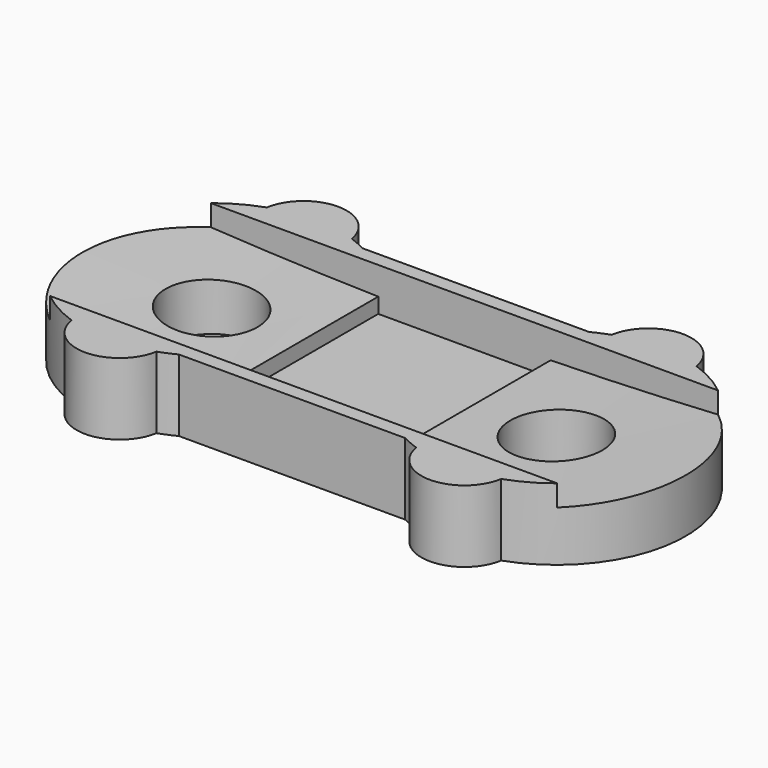
from build123d import *

# Parameters (mm, degrees)
BOX016_W               = 8
BOX016_H               = 8
BOX016_DEPTH           = 1
BOX015_W               = 26
BOX015_H               = 13
BOX015_DEPTH           = 1.5
BOX457_W               = 6
BOX457_H               = 7
BOX457_DEPTH           = 3
CYLINDER008_R          = 150
CYLINDER008_DEPTH      = 7
CYLINDER008_ROLL_ANGLE = 90
CYLINDER006_R          = 1.6
CYLINDER006_DEPTH      = 10
CYLINDER007_R          = 1.6
CYLINDER007_DEPTH      = 10
BOX008_W               = 10
BOX008_H               = 10
BOX008_DEPTH           = 10
CYLINDER005_R          = 1.5
CYLINDER005_DEPTH      = 4
CUT003_PLACEMENT_ANGLE = 180
BOX007_W               = 10
BOX007_H               = 10
BOX007_DEPTH           = 10
CYLINDER682_R          = 1.5
CYLINDER682_DEPTH      = 4
CUT002_PLACEMENT_ANGLE = 180
BOX006_W               = 10
BOX006_H               = 10
BOX006_DEPTH           = 10
CYLINDER003_R          = 1.5
CYLINDER003_DEPTH      = 4
BOX005_W               = 10
BOX005_H               = 10
BOX005_DEPTH           = 10
CYLINDER002_R          = 1.5
CYLINDER002_DEPTH      = 4
BOX456_W               = 12
BOX456_H               = 0.5
BOX456_DEPTH           = 1
BOX004_W               = 12
BOX004_H               = 0.5
BOX004_DEPTH           = 1
BOX455_W               = 12
BOX455_H               = 1
BOX455_DEPTH           = 4
BOX454_W               = 12
BOX454_H               = 1
BOX454_DEPTH           = 4
CYLINDER001_R          = 4.5
CYLINDER001_DEPTH      = 4
CYLINDER681_R          = 4.5
CYLINDER681_DEPTH      = 4
BOX453_W               = 12
BOX453_H               = 8
BOX453_DEPTH           = 1


with BuildPart() as box016:
    # Box016 → Box016 (new body)
    with BuildSketch(Plane(origin=(2, -4, 0), x_dir=(1, 0, 0), z_dir=(0, 0, 1))):
        with Locations((4, 4)):
            Rectangle(BOX016_W, BOX016_H)
    extrude(amount=BOX016_DEPTH)


with BuildPart() as box015:
    # Box015 → Box015 (new body)
    with BuildSketch(Plane(origin=(-6, -6, 0), x_dir=(1, 0, 0), z_dir=(0, 0, 1))):
        with Locations((13, 6.5)):
            Rectangle(BOX015_W, BOX015_H)
    extrude(amount=BOX015_DEPTH)


with BuildPart() as box457:
    # Box457 → Box457 (new body)
    with BuildSketch(Plane(origin=(3, -3.5, 1), x_dir=(1, 0, 0), z_dir=(0, 0, 1))):
        with Locations((3, 3.5)):
            Rectangle(BOX457_W, BOX457_H)
    extrude(amount=BOX457_DEPTH)


with BuildPart() as cylinder008:
    # Cylinder008 → Cylinder008 (new body)
    with BuildSketch(Plane.XY):
        Circle(CYLINDER008_R)
    extrude(amount=CYLINDER008_DEPTH)


with BuildPart() as cylinder008_1:
    # Cylinder008 roll: moved
    add(cylinder008.part.rotate(Axis((0, 0, 0), (1, 0, 0)), CYLINDER008_ROLL_ANGLE))


with BuildPart() as cylinder008_2:
    # Cylinder008 placement: moved
    add(cylinder008_1.part.moved(Location((6, 3.5, 153))))


with BuildPart() as cylinder006:
    # Cylinder006 → Cylinder006 (new body)
    with BuildSketch(Plane.XY):
        Circle(CYLINDER006_R)
    extrude(amount=CYLINDER006_DEPTH)


with BuildPart() as fusion004:
    # Cylinder007 → Cylinder007 (new body)
    with BuildSketch(Plane(origin=(12, 0, 0), x_dir=(1, 0, 0), z_dir=(0, 0, 1))):
        Circle(CYLINDER007_R)
    extrude(amount=CYLINDER007_DEPTH)

    # Fusion004: union Cylinder006
    add(cylinder006.part)


with BuildPart() as box008:
    # Box008 → Box008 (new body)
    with BuildSketch(Plane(origin=(-5, 0, 0), x_dir=(1, 0, 0), z_dir=(0, 0, 1))):
        with Locations((5, 5)):
            Rectangle(BOX008_W, BOX008_H)
    extrude(amount=BOX008_DEPTH)


with BuildPart() as cut003:
    # Cylinder005 → Cylinder005 (new body)
    with BuildSketch(Plane.XY):
        Circle(CYLINDER005_R)
    extrude(amount=CYLINDER005_DEPTH)

    # Cut003: cut Box008
    add(box008.part, mode=Mode.SUBTRACT)


with BuildPart() as cut003_1:
    # Cut003 placement: moved
    add(cut003.part.moved(Location((12, 4, 0))).rotate(Axis((12, 4, 0), (0, 0, 1)), CUT003_PLACEMENT_ANGLE))


with BuildPart() as box007:
    # Box007 → Box007 (new body)
    with BuildSketch(Plane(origin=(-5, 0, 0), x_dir=(1, 0, 0), z_dir=(0, 0, 1))):
        with Locations((5, 5)):
            Rectangle(BOX007_W, BOX007_H)
    extrude(amount=BOX007_DEPTH)


with BuildPart() as cut002:
    # Cylinder682 → Cylinder682 (new body)
    with BuildSketch(Plane.XY):
        Circle(CYLINDER682_R)
    extrude(amount=CYLINDER682_DEPTH)

    # Cut002: cut Box007
    add(box007.part, mode=Mode.SUBTRACT)


with BuildPart() as cut002_1:
    # Cut002 placement: moved
    add(cut002.part.moved(Location((0, 4, 0))).rotate(Axis((0, 4, 0), (0, 0, 1)), CUT002_PLACEMENT_ANGLE))


with BuildPart() as box006:
    # Box006 → Box006 (new body)
    with BuildSketch(Plane(origin=(-5, 0, 0), x_dir=(1, 0, 0), z_dir=(0, 0, 1))):
        with Locations((5, 5)):
            Rectangle(BOX006_W, BOX006_H)
    extrude(amount=BOX006_DEPTH)


with BuildPart() as cut860:
    # Cylinder003 → Cylinder003 (new body)
    with BuildSketch(Plane.XY):
        Circle(CYLINDER003_R)
    extrude(amount=CYLINDER003_DEPTH)

    # Cut572: cut Box006
    add(box006.part, mode=Mode.SUBTRACT)


with BuildPart() as cut860_1:
    # Cut572 placement: moved
    add(cut860.part.moved(Location((12, -4, 0))))


with BuildPart() as box005:
    # Box005 → Box005 (new body)
    with BuildSketch(Plane(origin=(-5, 0, 0), x_dir=(1, 0, 0), z_dir=(0, 0, 1))):
        with Locations((5, 5)):
            Rectangle(BOX005_W, BOX005_H)
    extrude(amount=BOX005_DEPTH)


with BuildPart() as cut859:
    # Cylinder002 → Cylinder002 (new body)
    with BuildSketch(Plane.XY):
        Circle(CYLINDER002_R)
    extrude(amount=CYLINDER002_DEPTH)

    # Cut571: cut Box005
    add(box005.part, mode=Mode.SUBTRACT)


with BuildPart() as cut859_1:
    # Cut571 placement: moved
    add(cut859.part.moved(Location((0, -4, 0))))


with BuildPart() as box456:
    # Box456 → Box456 (new body)
    with BuildSketch(Plane(origin=(0, 3.5, 3), x_dir=(1, 0, 0), z_dir=(0, 0, 1))):
        with Locations((6, 0.25)):
            Rectangle(BOX456_W, BOX456_H)
    extrude(amount=BOX456_DEPTH)


with BuildPart() as box004:
    # Box004 → Box004 (new body)
    with BuildSketch(Plane(origin=(0, -4, 3), x_dir=(1, 0, 0), z_dir=(0, 0, 1))):
        with Locations((6, 0.25)):
            Rectangle(BOX004_W, BOX004_H)
    extrude(amount=BOX004_DEPTH)


with BuildPart() as box455:
    # Box455 → Box455 (new body)
    with BuildSketch(Plane(origin=(0, 3, 0), x_dir=(1, 0, 0), z_dir=(0, 0, 1))):
        with Locations((6, 0.5)):
            Rectangle(BOX455_W, BOX455_H)
    extrude(amount=BOX455_DEPTH)


with BuildPart() as box454:
    # Box454 → Box454 (new body)
    with BuildSketch(Plane(origin=(0, -4, 0), x_dir=(1, 0, 0), z_dir=(0, 0, 1))):
        with Locations((6, 0.5)):
            Rectangle(BOX454_W, BOX454_H)
    extrude(amount=BOX454_DEPTH)


with BuildPart() as cylinder001:
    # Cylinder001 → Cylinder001 (new body)
    with BuildSketch(Plane(origin=(12, 0, 0), x_dir=(1, 0, 0), z_dir=(0, 0, 1))):
        Circle(CYLINDER001_R)
    extrude(amount=CYLINDER001_DEPTH)


with BuildPart() as cylinder798:
    # Cylinder681 → Cylinder681 (new body)
    with BuildSketch(Plane.XY):
        Circle(CYLINDER681_R)
    extrude(amount=CYLINDER681_DEPTH)


with BuildPart() as obj1:
    # Box453 → Box453 (new body)
    with BuildSketch(Plane(origin=(0, -4, 0), x_dir=(1, 0, 0), z_dir=(0, 0, 1))):
        with Locations((6, 4)):
            Rectangle(BOX453_W, BOX453_H)
    extrude(amount=BOX453_DEPTH)

    # Fusion453: union Cylinder001, Cylinder798
    add(cylinder001.part)
    add(cylinder798.part)

    # Fusion001: union Box455, Box454
    add(box455.part)
    add(box454.part)

    # Fusion002: union Box456, Box004
    add(box456.part)
    add(box004.part)

    # Fusion003: union Cut003, Cut002, Cut860, Cut859
    add(cut003_1.part)
    add(cut002_1.part)
    add(cut860_1.part)
    add(cut859_1.part)

    # Cut004: cut Fusion004
    add(fusion004.part, mode=Mode.SUBTRACT)

    # Cut005: cut Cylinder008
    add(cylinder008_2.part, mode=Mode.SUBTRACT)

    # Cut006: cut Box457
    add(box457.part, mode=Mode.SUBTRACT)

    # Cut012: cut Box015
    add(box015.part, mode=Mode.SUBTRACT)


with BuildPart() as obj1_1:
    # Cut012 placement: moved
    add(obj1.part.moved(Location((0, 0, -1.5))))

    # Fusion008: union Box016
    add(box016.part)


with BuildPart() as obj1_2:
    # Fusion008 placement: moved
    add(obj1_1.part.moved(Location((92, 45, -42.5))))


solid = obj1_2.part
